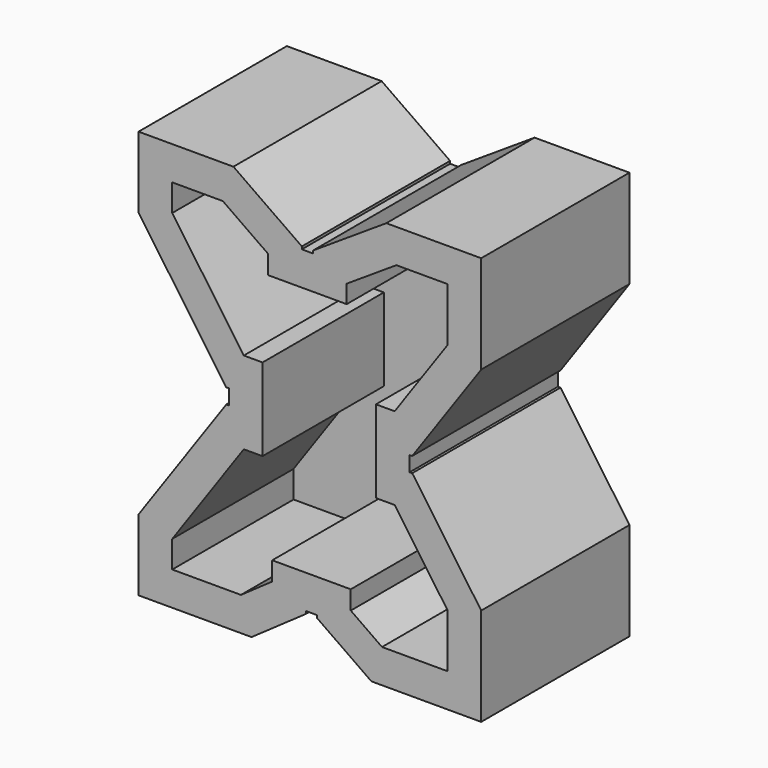
from build123d import *

# Parameters (mm, degrees)
F0_W     = 167.894
F0_H     = 200.025
F1_DEPTH = 90.805
F2_W     = 1.27
F2_H     = 7.4168746429
F2_W_2   = 5.461
F2_H_2   = 1.27
F3_DEPTH = 90.806
F4_T     = -16.51
F5_T     = -0.254


with BuildPart() as f1:
    # F0 (on Front) → F1 (new body)
    with BuildSketch(Plane.XZ):
        Rectangle(F0_W, F0_H)
    extrude(amount=F1_DEPTH)

    # F2 (on face) → F3 (cut, through all)
    with BuildSketch(Plane.XZ.offset(90.805)):
        Polygon((37.465, 100.0125), (-37.465, 100.0125), (-3.937, 76.5359416589), (1.524, 76.5359416589), align=None)
        Polygon((-40.9689176242, 3.7084373214), (-83.947, 65.0875), (-83.947, -65.0875), (-40.9689176242, -3.7084373214), align=None)
        Polygon((83.947, -51.9794289873), (83.947, 51.9794289873), (50.1472877587, 3.7084373214), (50.1472877587, -3.7084373214), align=None)
        Polygon((-1.9427287361, -81.3643829014), (-28.575, -100.0125), (30.1505425278, -100.0125), (3.5182712639, -81.3643829014), align=None)
        with Locations((-40.3339176242, 0)):
            Rectangle(F2_W, F2_H)
        with Locations((49.5122877587, 0)):
            Rectangle(F2_W, F2_H)
        with Locations((-1.2065, 75.9009416589)):
            Rectangle(F2_W_2, F2_H_2)
        with Locations((0.7877712639, -80.7293829014)):
            Rectangle(F2_W_2, F2_H_2)
    extrude(amount=-F3_DEPTH, mode=Mode.SUBTRACT)

    # F4
    f4_openings = [f1.faces().sort_by_distance(p)[0] for p in [
        (2.503833, -90.805, -1.127696),
    ]]
    offset(amount=F4_T, openings=f4_openings, kind=Kind.INTERSECTION)

    # F5
    f5_openings = [f1.faces().sort_by_distance(p)[0] for p in [
        (2.503833, 0, -1.127696),
    ]]
    offset(amount=F5_T, openings=f5_openings, kind=Kind.INTERSECTION)


solid = f1.part
